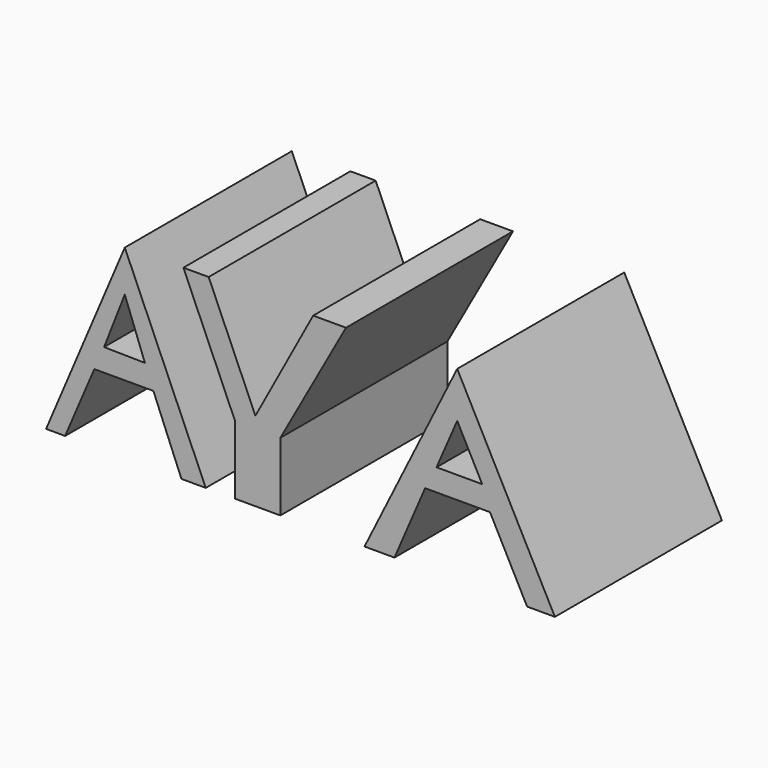
from build123d import *

# Parameters (mm, degrees)
F1_DEPTH = 76.2


with BuildPart() as f1:
    # F0 (on Front) → F1 (new body)
    with BuildSketch(Plane.XZ):
        Polygon((28.725814, 67.619562), (0, 0), (6.945313, 0), (17.613312, 24.947561), (39.171562, 24.947561), (49.395062, 0), (58.285069, 0), align=None)
        Polygon((36.060065, 32.948565), (21.169312, 33.170812), (28.725814, 52.506562), align=None, mode=Mode.SUBTRACT)
        Polygon((68.981948, 0), (76.141529, 0), (85.510939, 0), (85.510939, 24.947561), (109.454982, 68.106584), (97.482964, 68.106584), (76.401792, 29.067378), (59.336171, 68.106584), (50.115388, 68.106584), (68.981948, 24.947561), align=None)
        Polygon((150.055751, 68.106584), (116.221778, 0), (127.152756, 0), (138.34399, 25.944242), (162.027776, 25.944242), (175.561368, 0), (185.711563, 0), align=None)
        Polygon((159.164906, 34.012344), (142.508179, 34.012344), (150.055751, 51.411846), align=None, mode=Mode.SUBTRACT)
    extrude(amount=F1_DEPTH)


solid = f1.part
